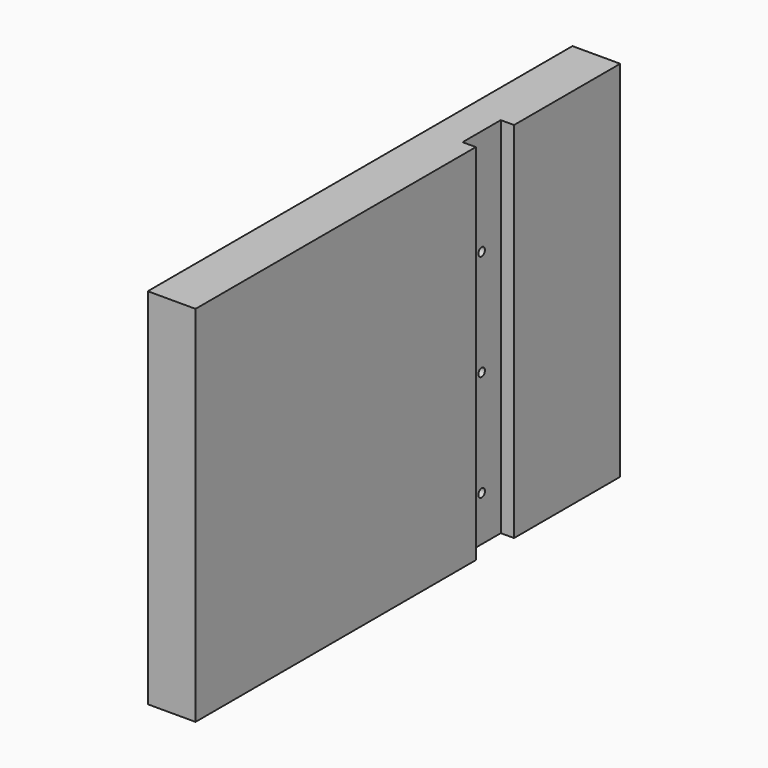
from build123d import *

# Parameters (mm, degrees)
BOX_W           = 18
BOX_H           = 200
BOX_DEPTH       = 137
SKETCH001_W     = 18
SKETCH001_H     = 137
POCKET001_DEPTH = 5
SKETCH003_R     = 1.55
HOLE_DEPTH      = 13.001


with BuildPart() as part:
    # Box → Box (new body)
    with BuildSketch(Plane.XY):
        with Locations((9, 100)):
            Rectangle(BOX_W, BOX_H)
    extrude(amount=BOX_DEPTH)

    # Sketch001 (on Face2 of BaseFeature001) → Pocket001 (cut)
    with BuildSketch(Plane.YZ.offset(18)):
        with Locations((141, 68.5)):
            Rectangle(SKETCH001_W, SKETCH001_H)
    extrude(amount=-POCKET001_DEPTH, mode=Mode.SUBTRACT)

    # Sketch003 (on Face9 of Pocket001) → Hole (cut, through all)
    with BuildSketch(Plane.YZ.offset(13)):
        with Locations((141, 97)):
            Circle(SKETCH003_R)
        with Locations((141, 57)):
            Circle(SKETCH003_R)
        with Locations((141, 17)):
            Circle(SKETCH003_R)
    extrude(amount=-HOLE_DEPTH, mode=Mode.SUBTRACT)


solid = part.part
